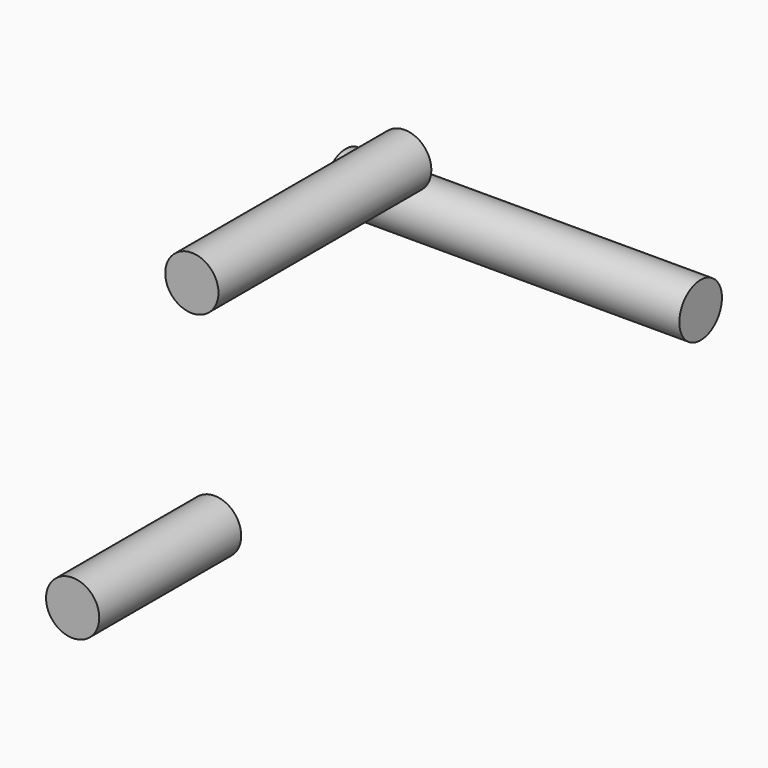
from build123d import *

# Parameters (mm, degrees)
F0_R     = 3.81
F1_DEPTH = 25.4
F2_R     = 3.81
F3_DEPTH = 38.1
F4_R     = 3.81
F5_DEPTH = 50.8


with BuildPart() as f1:
    # F0 (on Front) → F1 (new body)
    with BuildSketch(Plane.XZ):
        Circle(F0_R)
    extrude(amount=F1_DEPTH)


with BuildPart() as f3:
    # F2 (on Front) → F3 (new body)
    with BuildSketch(Plane.XZ):
        with Locations((27.224183, 54.96791)):
            Circle(F2_R)
    extrude(amount=F3_DEPTH)


with BuildPart() as f5:
    # F4 (on Right) → F5 (new body)
    with BuildSketch(Plane.YZ):
        with Locations((23.483455, 34.186091)):
            Circle(F4_R)
    extrude(amount=F5_DEPTH)


solid = Compound([f1.part, f3.part, f5.part])
